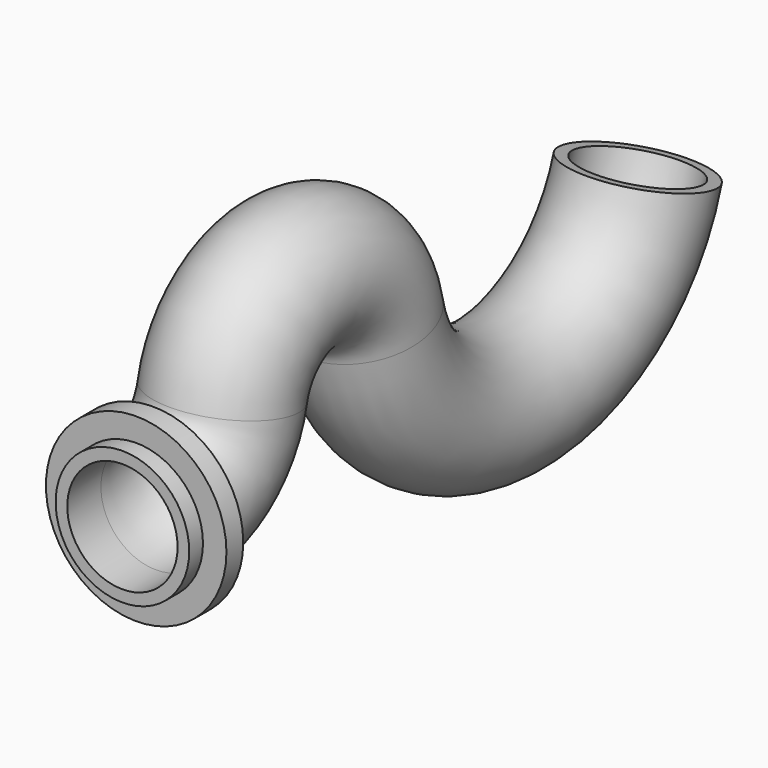
from build123d import *

# Parameters (mm, degrees)
F0_R     = 35
F0_R_2   = 28.910012
F4_R     = 47.301556
F4_R_2   = 35
F5_DEPTH = 11


with BuildPart() as f2:
    # F2: sweep along a path in F1
    with BuildLine(Plane.YZ) as f2_path:
        Line((0, 0), (22.025626, 0))
        ThreePointArc((22.025626, 0), (50.065838, 10.027533), (65.38856, 35.562199))
        ThreePointArc((65.38856, 35.562199), (109.919547, 72.178159), (154.638201, 35.791632))
        ThreePointArc((154.638201, 35.791632), (243.225803, -39.48669), (337.55821, 28.454358))
    # F0 (on Front) → F2 (sweep)
    with BuildSketch(Plane.XZ):
        Circle(F0_R)
        Circle(F0_R_2, mode=Mode.SUBTRACT)
    sweep(path=f2_path.line)

    # F4 (on offset) → F5 (join)
    with BuildSketch(Plane.XZ.offset(-9)):
        Circle(F4_R)
        Circle(F4_R_2, mode=Mode.SUBTRACT)
    extrude(amount=-F5_DEPTH)


solid = f2.part
